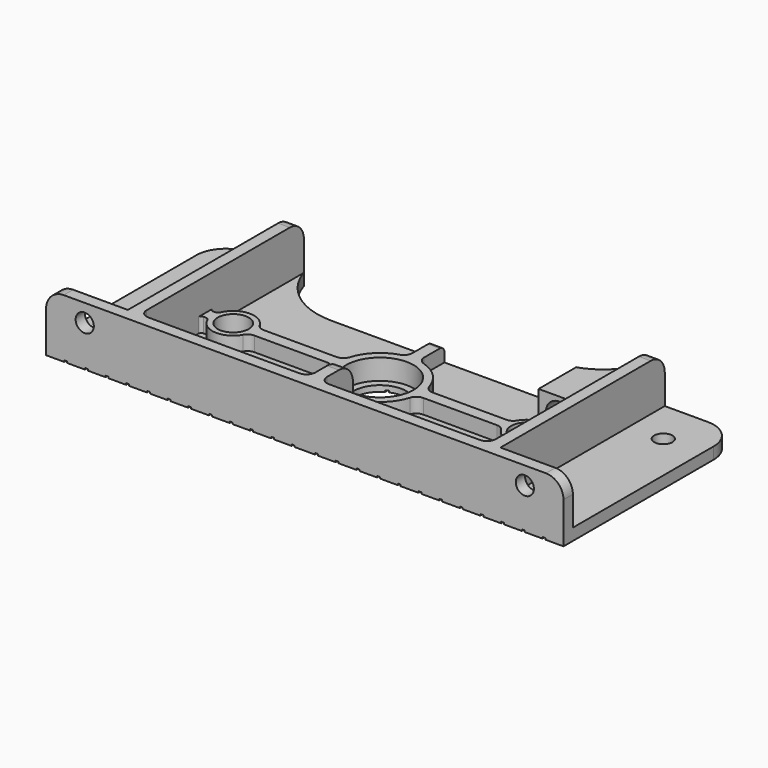
from build123d import *

# Parameters (mm, degrees)
SKETCH_R               = 9
SKETCH_R_2             = 5.3
SKETCH_R_3             = 3.1
PAD_DEPTH              = 4
PAD001_DEPTH           = 16
SKETCH002_R            = 11.5
POCKET_DEPTH           = 2
FILLET_R               = 6
SKETCH003_R            = 3.1
POCKET001_DEPTH        = 5
SKETCH004_R            = 11.5
SKETCH004_R_2          = 5.3
PAD002_DEPTH           = 5
FILLET001_R            = 2
PAD003_DEPTH           = 12
SKETCH006_R            = 4.5
POCKET002_DEPTH        = 31.267151
FILLET002_R            = 3
FILLET003_R            = 1
SKETCH007_W            = 1
SKETCH007_H            = 76
POCKET003_DEPTH        = 0.5
SKETCH008_W            = 1
SKETCH008_H            = 76
POCKET004_DEPTH        = 0.5
LINEARPATTERN_COUNT    = 12
LINEARPATTERN_PITCH    = 7.045455
LINEARPATTERN001_COUNT = 12
LINEARPATTERN001_PITCH = 7.045455


with BuildPart() as part:
    # Sketch → Pad (new body)
    with BuildSketch(Plane.XY):
        with BuildLine():
            Line((-88.175, -32), (88.175, -32))
            Line((88.175, -32), (88.175, 31.99997))
            ThreePointArc((88.175, 31.99997), (85.246068, 39.071067), (78.174971, 41.999999))
            Line((59.499999, 41.999999), (78.174971, 41.999999))
            ThreePointArc((36.543518, 25), (50.826375, 29.712698), (59.499999, 41.999999))
            Line((-36.543518, 25), (36.543518, 25))
            ThreePointArc((-59.5, 42), (-50.826376, 29.712698), (-36.543518, 25))
            Line((-78.174972, 42), (-59.5, 42))
            ThreePointArc((-78.174972, 42), (-85.246068, 39.071067), (-88.175, 31.99997))
            Line((-88.175, -32), (-88.175, 31.99997))
        make_face()
        Circle(SKETCH_R, mode=Mode.SUBTRACT)
        with Locations((50, 0)):
            Circle(SKETCH_R_2, mode=Mode.SUBTRACT)
        with Locations((-50, 0)):
            Circle(SKETCH_R_2, mode=Mode.SUBTRACT)
        with Locations((-75, -18)):
            Circle(SKETCH_R_3, mode=Mode.SUBTRACT)
        with Locations((-75, 27)):
            Circle(SKETCH_R_3, mode=Mode.SUBTRACT)
        with Locations((75, 27)):
            Circle(SKETCH_R_3, mode=Mode.SUBTRACT)
        with Locations((75, -18)):
            Circle(SKETCH_R_3, mode=Mode.SUBTRACT)
    extrude(amount=PAD_DEPTH)

    # Sketch001 (on Face19 of Pad) → Pad001 (join)
    with BuildSketch(Plane.XY.offset(4)):
        Polygon((-88.175, -32), (-88.175, -28), (-63.500001, -28), (-63.500001, 42), (-59.5, 42), (-59.5, -28), (-2, -28), (-2, -14), (2, -14), (2, -28), (59.499999, -28), (59.499999, 41.999999), (63.5, 41.999999), (63.5, -28), (88.175, -28), (88.175, -32), align=None)
    extrude(amount=PAD001_DEPTH)

    # Sketch002 (on Face24 of Pad001) → Pocket (cut)
    with BuildSketch(Plane.XY.offset(4)):
        Circle(SKETCH002_R)
    extrude(amount=-POCKET_DEPTH, mode=Mode.SUBTRACT)

    # Fillet
    fillet_edges = [part.edges().sort_by_distance(p)[0] for p in [
        (88.175, -30, 20),
        (61.5, 41.999999, 20),
        (-61.5, 42, 20),
        (-88.175, -30, 20),
        (0, -14, 20),
    ]]
    fillet(fillet_edges, radius=FILLET_R)

    # Sketch003 (on Face15 of Fillet) → Pocket001 (cut)
    with BuildSketch(Plane.XZ.offset(32)):
        with Locations((-75, 14)):
            Circle(SKETCH003_R)
        with Locations((75, 14)):
            Circle(SKETCH003_R)
    extrude(amount=-POCKET001_DEPTH, mode=Mode.SUBTRACT)

    # Sketch004 (on Face12 of Pocket001) → Pad002 (join)
    with BuildSketch(Plane.XY.offset(4)):
        with BuildLine():
            Line((-59.5, 2), (-56.846062, 2))
            ThreePointArc((-43.153938, 2), (-50, 7.13222), (-56.846062, 2))
            Line((-43.153938, 2), (-14, 2))
            ThreePointArc((-2, 14), (-10, 10), (-14, 2))
            Line((-2, 14), (-2, 25))
            Line((-2, 25), (2, 25))
            Line((2, 14), (2, 25))
            ThreePointArc((14, 2), (10, 10), (2, 14))
            Line((43.417819, 2), (14, 2))
            ThreePointArc((56.582181, 2), (50, 6.879324), (43.417819, 2))
            Line((59.499999, 2), (56.582181, 2))
            Line((59.499999, -2), (59.499999, 2))
            Line((59.499999, -2), (56.582181, -2))
            ThreePointArc((43.417819, -2), (50, -6.879324), (56.582181, -2))
            Line((43.417819, -2), (14, -2))
            ThreePointArc((2, -14), (10, -10), (14, -2))
            Line((-2, -14), (2, -14))
            ThreePointArc((-14, -2), (-10, -10), (-2, -14))
            Line((-43.153938, -2), (-14, -2))
            ThreePointArc((-56.846062, -2), (-50, -7.13222), (-43.153938, -2))
            Line((-59.5, -2), (-56.846062, -2))
            Line((-59.5, -2), (-59.5, 2))
        make_face()
        Circle(SKETCH004_R, mode=Mode.SUBTRACT)
        with Locations((50, 0)):
            Circle(SKETCH004_R_2, mode=Mode.SUBTRACT)
        with Locations((-50, 0)):
            Circle(SKETCH004_R_2, mode=Mode.SUBTRACT)
    extrude(amount=PAD002_DEPTH)

    # Fillet001
    fillet001_edges = [part.edges().sort_by_distance(p)[0] for p in [
        (0, 25, 9),
    ]]
    fillet(fillet001_edges, radius=FILLET001_R)

    # Sketch005 (on Face29 of Fillet001) → Pad003 (join)
    with BuildSketch(Plane.XY.offset(4)):
        with BuildLine():
            Line((59.499999, 38.733849), (59.499999, 10.733849))
            Line((59.499999, 10.733849), (45.499999, 10.733849))
            Line((45.499999, 10.733849), (45.499999, 26.733849))
            ThreePointArc((45.499999, 26.733849), (53.207972, 31.312102), (58.236978, 38.733849))
            Line((58.236978, 38.733849), (59.499999, 38.733849))
        make_face()
    extrude(amount=PAD003_DEPTH)

    # Sketch006 (on Face37 of Pad003) → Pocket002 (cut, through all)
    with BuildSketch(Plane.XZ.offset(-10.733849)):
        with Locations((52.499999, 10)):
            Circle(SKETCH006_R)
    extrude(amount=-POCKET002_DEPTH, mode=Mode.SUBTRACT)

    # Fillet002
    fillet002_edges = [part.edges().sort_by_distance(p)[0] for p in [
        (-2, 14, 6.5),
        (-14, 2, 6.5),
        (-43.153938, 2, 6.5),
        (-43.153938, -2, 6.5),
        (-14, -2, 6.5),
        (-2, -14, 6.5),
        (2, -14, 6.5),
        (14, -2, 6.5),
        (14, 2, 6.5),
        (2, 14, 6.5),
        (-59.5, -28, 12),
        (-2, -28, 12),
        (2, -28, 12),
        (59.499999, -28, 12),
        (43.417819, -2, 6.5),
        (43.417819, 2, 6.5),
    ]]
    fillet(fillet002_edges, radius=FILLET002_R)

    # Fillet003
    fillet003_edges = [part.edges().sort_by_distance(p)[0] for p in [
        (-59.5, 2, 6.5),
        (-56.846062, 2, 6.5),
        (-59.5, -2, 6.5),
        (-56.846062, -2, 6.5),
        (56.582181, -2, 6.5),
        (59.499999, -2, 6.5),
        (56.582181, 2, 6.5),
        (59.499999, 2, 6.5),
    ]]
    fillet(fillet003_edges, radius=FILLET003_R)

    # Sketch007 (on Face89 of Fillet003) → Pocket003 (cut, symmetric)
    with BuildSketch(Plane(origin=(0, 0, 0), x_dir=(1, 0, 0), z_dir=(0, 0, -1))):
        with Locations((81.505, -5)):
            Rectangle(SKETCH007_W, SKETCH007_H)
    pocket003 = extrude(amount=POCKET003_DEPTH, both=True, mode=Mode.SUBTRACT)

    # Sketch008 (on Face89 of Pocket003) → Pocket004 (cut, symmetric)
    with BuildSketch(Plane(origin=(0, 0, 0), x_dir=(1, 0, 0), z_dir=(0, 0, -1))):
        with Locations((-81.505, -5)):
            Rectangle(SKETCH008_W, SKETCH008_H)
    pocket004 = extrude(amount=POCKET004_DEPTH, both=True, mode=Mode.SUBTRACT)

    # LinearPattern: Pocket003 ×12
    with Locations(*[(-i * LINEARPATTERN_PITCH, 0, 0) for i in range(1, LINEARPATTERN_COUNT)]):
        add(pocket003, mode=Mode.SUBTRACT)

    # LinearPattern001: Pocket004 ×12
    with Locations(*[(i * LINEARPATTERN001_PITCH, 0, 0) for i in range(1, LINEARPATTERN001_COUNT)]):
        add(pocket004, mode=Mode.SUBTRACT)


solid = part.part
